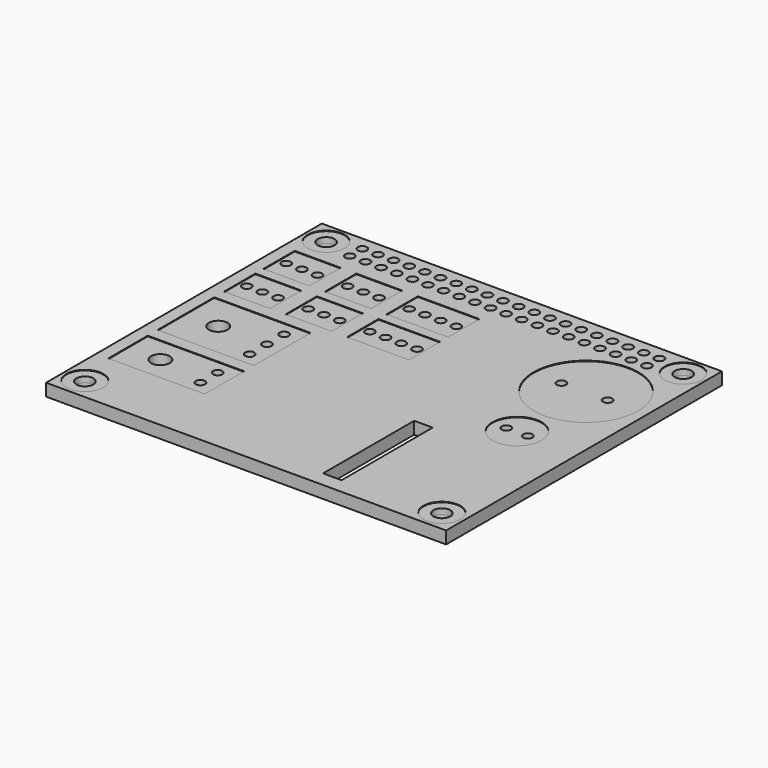
from build123d import *

# Parameters (mm, degrees)
F0_W          = 65
F0_H          = 56
F0_R          = 3
F0_W_2        = 3
F0_H_2        = 18.5
F1_DEPTH      = 1
F1_DEPTH_BACK = 1
F2_R          = 3
F2_R_2        = 1.375
F3_DEPTH      = 0.9
F3_DEPTH_BACK = 0.9
F4_R          = 0.75
F4_W          = 0.64
F4_H          = 0.64
F4_R_2        = 1.525
F5_DEPTH      = 2.001
F4_W_2        = 7.47
F4_H_2        = 6.35
F4_W_3        = 10.01
F4_W_4        = 15.66
F4_H_3        = 11.5
F4_H_4        = 8
F4_R_3        = 8.5
F4_R_4        = 4
F6_DEPTH      = 0.1
F7_W          = 51.3
F7_H          = 5
F7_R          = 0.75
F8_DEPTH      = 0.1


with BuildPart() as f1:
    # F0 (on Top) → F1 (new body, two sides)
    with BuildSketch(Plane.XY) as f1_sk:
        Rectangle(F0_W, F0_H)
        with Locations((-29, -24.5)):
            Circle(F0_R, mode=Mode.SUBTRACT)
        with Locations((29, -24.5)):
            Circle(F0_R, mode=Mode.SUBTRACT)
        with Locations((12, -16.25)):
            Rectangle(F0_W_2, F0_H_2, mode=Mode.SUBTRACT)
        with Locations((-29, 24.5)):
            Circle(F0_R, mode=Mode.SUBTRACT)
        with Locations((29, 24.5)):
            Circle(F0_R, mode=Mode.SUBTRACT)
    extrude(amount=F1_DEPTH)
    extrude(f1_sk.sketch, amount=-F1_DEPTH_BACK)

    # F2 (on Top) → F3 (join, two sides)
    with BuildSketch(Plane.XY) as f3_sk:
        with Locations((-29, 24.5)):
            Circle(F2_R)
        with Locations((-29, 24.5)):
            Circle(F2_R_2, mode=Mode.SUBTRACT)
        with Locations((29, 24.5)):
            Circle(F2_R)
        with Locations((29, 24.5)):
            Circle(F2_R_2, mode=Mode.SUBTRACT)
        with Locations((29, -24.5)):
            Circle(F2_R)
        with Locations((29, -24.5)):
            Circle(F2_R_2, mode=Mode.SUBTRACT)
        with Locations((-29, -24.5)):
            Circle(F2_R)
        with Locations((-29, -24.5)):
            Circle(F2_R_2, mode=Mode.SUBTRACT)
    extrude(amount=F3_DEPTH)
    extrude(f3_sk.sketch, amount=-F3_DEPTH_BACK)

    # F4 (on face) → F5 (cut, through all)
    with BuildSketch(Plane.XY.offset(1)):
        with Locations((-29.3, 8.75)):
            Circle(F4_R)
        with Locations((-29.3, 8.75)):
            Rectangle(F4_W, F4_H, mode=Mode.SUBTRACT)
        with Locations((-29.3, 8.75)):
            Rectangle(F4_W, F4_H)
        with Locations((-26.75, 8.75)):
            Circle(F4_R)
        with Locations((-26.75, 8.75)):
            Rectangle(F4_W, F4_H, mode=Mode.SUBTRACT)
        with Locations((-26.75, 8.75)):
            Rectangle(F4_W, F4_H)
        with Locations((-24.2, 8.75)):
            Circle(F4_R)
        with Locations((-24.2, 8.75)):
            Rectangle(F4_W, F4_H, mode=Mode.SUBTRACT)
        with Locations((-24.2, 8.75)):
            Rectangle(F4_W, F4_H)
        with Locations((-29.3, 16.75)):
            Circle(F4_R)
        with Locations((-29.3, 16.75)):
            Rectangle(F4_W, F4_H, mode=Mode.SUBTRACT)
        with Locations((-29.3, 16.75)):
            Rectangle(F4_W, F4_H)
        with Locations((-26.75, 16.75)):
            Circle(F4_R)
        with Locations((-26.75, 16.75)):
            Rectangle(F4_W, F4_H, mode=Mode.SUBTRACT)
        with Locations((-26.75, 16.75)):
            Rectangle(F4_W, F4_H)
        with Locations((-24.2, 16.75)):
            Circle(F4_R)
        with Locations((-24.2, 16.75)):
            Rectangle(F4_W, F4_H, mode=Mode.SUBTRACT)
        with Locations((-24.2, 16.75)):
            Rectangle(F4_W, F4_H)
        with Locations((-19.3, 16.75)):
            Circle(F4_R)
        with Locations((-19.3, 16.75)):
            Rectangle(F4_W, F4_H, mode=Mode.SUBTRACT)
        with Locations((-19.3, 16.75)):
            Rectangle(F4_W, F4_H)
        with Locations((-16.75, 16.75)):
            Circle(F4_R)
        with Locations((-16.75, 16.75)):
            Rectangle(F4_W, F4_H, mode=Mode.SUBTRACT)
        with Locations((-16.75, 16.75)):
            Rectangle(F4_W, F4_H)
        with Locations((-14.2, 16.75)):
            Circle(F4_R)
        with Locations((-14.2, 16.75)):
            Rectangle(F4_W, F4_H, mode=Mode.SUBTRACT)
        with Locations((-14.2, 16.75)):
            Rectangle(F4_W, F4_H)
        with Locations((-9.3, 16.75)):
            Circle(F4_R)
        with Locations((-9.3, 16.75)):
            Rectangle(F4_W, F4_H, mode=Mode.SUBTRACT)
        with Locations((-9.3, 16.75)):
            Rectangle(F4_W, F4_H)
        with Locations((-6.75, 16.75)):
            Circle(F4_R)
        with Locations((-6.75, 16.75)):
            Rectangle(F4_W, F4_H, mode=Mode.SUBTRACT)
        with Locations((-6.75, 16.75)):
            Rectangle(F4_W, F4_H)
        with Locations((-4.2, 16.75)):
            Circle(F4_R)
        with Locations((-4.2, 16.75)):
            Rectangle(F4_W, F4_H, mode=Mode.SUBTRACT)
        with Locations((-4.2, 16.75)):
            Rectangle(F4_W, F4_H)
        with Locations((-1.65, 16.75)):
            Circle(F4_R)
        with Locations((-1.65, 16.75)):
            Rectangle(F4_W, F4_H, mode=Mode.SUBTRACT)
        with Locations((-1.65, 16.75)):
            Rectangle(F4_W, F4_H)
        with Locations((-9.3, 8.75)):
            Circle(F4_R)
        with Locations((-9.3, 8.75)):
            Rectangle(F4_W, F4_H, mode=Mode.SUBTRACT)
        with Locations((-9.3, 8.75)):
            Rectangle(F4_W, F4_H)
        with Locations((-6.75, 8.75)):
            Circle(F4_R)
        with Locations((-6.75, 8.75)):
            Rectangle(F4_W, F4_H, mode=Mode.SUBTRACT)
        with Locations((-6.75, 8.75)):
            Rectangle(F4_W, F4_H)
        with Locations((-4.2, 8.75)):
            Circle(F4_R)
        with Locations((-4.2, 8.75)):
            Rectangle(F4_W, F4_H, mode=Mode.SUBTRACT)
        with Locations((-4.2, 8.75)):
            Rectangle(F4_W, F4_H)
        with Locations((-1.65, 8.75)):
            Circle(F4_R)
        with Locations((-1.65, 8.75)):
            Rectangle(F4_W, F4_H, mode=Mode.SUBTRACT)
        with Locations((-1.65, 8.75)):
            Rectangle(F4_W, F4_H)
        with Locations((-14.2, 8.75)):
            Circle(F4_R)
        with Locations((-14.2, 8.75)):
            Rectangle(F4_W, F4_H, mode=Mode.SUBTRACT)
        with Locations((-14.2, 8.75)):
            Rectangle(F4_W, F4_H)
        with Locations((-16.75, 8.75)):
            Circle(F4_R)
        with Locations((-16.75, 8.75)):
            Rectangle(F4_W, F4_H, mode=Mode.SUBTRACT)
        with Locations((-16.75, 8.75)):
            Rectangle(F4_W, F4_H)
        with Locations((-19.3, 8.75)):
            Circle(F4_R)
        with Locations((-19.3, 8.75)):
            Rectangle(F4_W, F4_H, mode=Mode.SUBTRACT)
        with Locations((-19.3, 8.75)):
            Rectangle(F4_W, F4_H)
        with Locations((-17.34, 1.4)):
            Circle(F4_R)
        with Locations((-25.25, -2.1)):
            Circle(F4_R_2)
        with Locations((-17.34, -2.1)):
            Circle(F4_R)
        with Locations((-17.34, -5.6)):
            Circle(F4_R)
        with Locations((-17.34, -12.1)):
            Circle(F4_R)
        with Locations((-17.34, -15.6)):
            Circle(F4_R)
        with Locations((-25.25, -13.85)):
            Circle(F4_R_2)
        with Locations((20.75, -1.1)):
            Circle(F4_R)
        with Locations((24.25, -1.1)):
            Circle(F4_R)
        with Locations((18.5, 12.9)):
            Circle(F4_R)
        with Locations((26, 12.9)):
            Circle(F4_R)
        with Locations((-24.15, 23.25)):
            Circle(F4_R)
        with Locations((-24.15, 25.79)):
            Circle(F4_R)
        with Locations((-21.61, 25.79)):
            Circle(F4_R)
        with Locations((-21.61, 23.25)):
            Circle(F4_R)
        with Locations((-19.07, 25.79)):
            Circle(F4_R)
        with Locations((-19.07, 23.25)):
            Circle(F4_R)
        with Locations((-16.53, 25.79)):
            Circle(F4_R)
        with Locations((-16.53, 23.25)):
            Circle(F4_R)
        with Locations((-13.99, 25.79)):
            Circle(F4_R)
        with Locations((-13.99, 23.25)):
            Circle(F4_R)
        with Locations((-11.45, 25.79)):
            Circle(F4_R)
        with Locations((-11.45, 23.25)):
            Circle(F4_R)
        with Locations((-8.91, 25.79)):
            Circle(F4_R)
        with Locations((-8.91, 23.25)):
            Circle(F4_R)
        with Locations((-6.37, 25.79)):
            Circle(F4_R)
        with Locations((-6.37, 23.25)):
            Circle(F4_R)
        with Locations((-3.83, 25.79)):
            Circle(F4_R)
        with Locations((-3.83, 23.25)):
            Circle(F4_R)
        with Locations((-1.29, 25.79)):
            Circle(F4_R)
        with Locations((-1.29, 23.25)):
            Circle(F4_R)
        with Locations((1.25, 25.79)):
            Circle(F4_R)
        with Locations((1.25, 23.25)):
            Circle(F4_R)
        with Locations((3.79, 25.79)):
            Circle(F4_R)
        with Locations((3.79, 23.25)):
            Circle(F4_R)
        with Locations((6.33, 25.79)):
            Circle(F4_R)
        with Locations((6.33, 23.25)):
            Circle(F4_R)
        with Locations((8.87, 25.79)):
            Circle(F4_R)
        with Locations((8.87, 23.25)):
            Circle(F4_R)
        with Locations((11.41, 25.79)):
            Circle(F4_R)
        with Locations((11.41, 23.25)):
            Circle(F4_R)
        with Locations((13.95, 25.79)):
            Circle(F4_R)
        with Locations((13.95, 23.25)):
            Circle(F4_R)
        with Locations((16.49, 25.79)):
            Circle(F4_R)
        with Locations((16.49, 23.25)):
            Circle(F4_R)
        with Locations((19.03, 25.79)):
            Circle(F4_R)
        with Locations((19.03, 23.25)):
            Circle(F4_R)
        with Locations((21.57, 25.79)):
            Circle(F4_R)
        with Locations((21.57, 23.25)):
            Circle(F4_R)
        with Locations((24.11, 25.79)):
            Circle(F4_R)
        with Locations((24.11, 23.25)):
            Circle(F4_R)
    extrude(amount=-F5_DEPTH, mode=Mode.SUBTRACT)

    # F4 (on face) → F6 (cut)
    with BuildSketch(Plane.XY.offset(1)):
        with Locations((-26.765, 16.825)):
            Rectangle(F4_W_2, F4_H_2)
        with Locations((-29.3, 16.75)):
            Circle(F4_R, mode=Mode.SUBTRACT)
        with Locations((-26.75, 16.75)):
            Circle(F4_R, mode=Mode.SUBTRACT)
        with Locations((-24.2, 16.75)):
            Circle(F4_R, mode=Mode.SUBTRACT)
        with Locations((-16.765, 16.825)):
            Rectangle(F4_W_2, F4_H_2)
        with Locations((-19.3, 16.75)):
            Circle(F4_R, mode=Mode.SUBTRACT)
        with Locations((-16.75, 16.75)):
            Circle(F4_R, mode=Mode.SUBTRACT)
        with Locations((-14.2, 16.75)):
            Circle(F4_R, mode=Mode.SUBTRACT)
        with Locations((-5.495, 16.825)):
            Rectangle(F4_W_3, F4_H_2)
        with Locations((-9.3, 16.75)):
            Circle(F4_R, mode=Mode.SUBTRACT)
        with Locations((-6.75, 16.75)):
            Circle(F4_R, mode=Mode.SUBTRACT)
        with Locations((-4.2, 16.75)):
            Circle(F4_R, mode=Mode.SUBTRACT)
        with Locations((-1.65, 16.75)):
            Circle(F4_R, mode=Mode.SUBTRACT)
        with Locations((-5.495, 8.825)):
            Rectangle(F4_W_3, F4_H_2)
        with Locations((-9.3, 8.75)):
            Circle(F4_R, mode=Mode.SUBTRACT)
        with Locations((-6.75, 8.75)):
            Circle(F4_R, mode=Mode.SUBTRACT)
        with Locations((-4.2, 8.75)):
            Circle(F4_R, mode=Mode.SUBTRACT)
        with Locations((-1.65, 8.75)):
            Circle(F4_R, mode=Mode.SUBTRACT)
        with Locations((-16.765, 8.825)):
            Rectangle(F4_W_2, F4_H_2)
        with Locations((-19.3, 8.75)):
            Circle(F4_R, mode=Mode.SUBTRACT)
        with Locations((-16.75, 8.75)):
            Circle(F4_R, mode=Mode.SUBTRACT)
        with Locations((-14.2, 8.75)):
            Circle(F4_R, mode=Mode.SUBTRACT)
        with Locations((-26.765, 8.825)):
            Rectangle(F4_W_2, F4_H_2)
        with Locations((-29.3, 8.75)):
            Circle(F4_R, mode=Mode.SUBTRACT)
        with Locations((-26.75, 8.75)):
            Circle(F4_R, mode=Mode.SUBTRACT)
        with Locations((-24.2, 8.75)):
            Circle(F4_R, mode=Mode.SUBTRACT)
        with Locations((-22.67, -2.1)):
            Rectangle(F4_W_4, F4_H_3)
        with Locations((-25.25, -2.1)):
            Circle(F4_R_2, mode=Mode.SUBTRACT)
        with Locations((-17.34, -5.6)):
            Circle(F4_R, mode=Mode.SUBTRACT)
        with Locations((-17.34, -2.1)):
            Circle(F4_R, mode=Mode.SUBTRACT)
        with Locations((-17.34, 1.4)):
            Circle(F4_R, mode=Mode.SUBTRACT)
        with Locations((-22.67, -13.85)):
            Rectangle(F4_W_4, F4_H_4)
        with Locations((-17.34, -15.6)):
            Circle(F4_R, mode=Mode.SUBTRACT)
        with Locations((-25.25, -13.85)):
            Circle(F4_R_2, mode=Mode.SUBTRACT)
        with Locations((-17.34, -12.1)):
            Circle(F4_R, mode=Mode.SUBTRACT)
        with Locations((22.5, 12.9)):
            Circle(F4_R_3)
        with Locations((18.5, 12.9)):
            Circle(F4_R, mode=Mode.SUBTRACT)
        with Locations((26, 12.9)):
            Circle(F4_R, mode=Mode.SUBTRACT)
        with Locations((22.5, -1.1)):
            Circle(F4_R_4)
        with Locations((20.75, -1.1)):
            Circle(F4_R, mode=Mode.SUBTRACT)
        with Locations((24.25, -1.1)):
            Circle(F4_R, mode=Mode.SUBTRACT)
    extrude(amount=-F6_DEPTH, mode=Mode.SUBTRACT)

    # F7 (on face) → F8 (cut)
    with BuildSketch(Plane(origin=(0, 0, -1), x_dir=(1, 0, 0), z_dir=(0, 0, -1))):
        with Locations((0, -24.54)):
            Rectangle(F7_W, F7_H)
        with Locations((-24.15, -25.79)):
            Circle(F7_R, mode=Mode.SUBTRACT)
        with Locations((-21.61, -25.79)):
            Circle(F7_R, mode=Mode.SUBTRACT)
        with Locations((-19.07, -25.79)):
            Circle(F7_R, mode=Mode.SUBTRACT)
        with Locations((-16.53, -25.79)):
            Circle(F7_R, mode=Mode.SUBTRACT)
        with Locations((-24.15, -23.25)):
            Circle(F7_R, mode=Mode.SUBTRACT)
        with Locations((-21.61, -23.25)):
            Circle(F7_R, mode=Mode.SUBTRACT)
        with Locations((-19.07, -23.25)):
            Circle(F7_R, mode=Mode.SUBTRACT)
        with Locations((-16.53, -23.25)):
            Circle(F7_R, mode=Mode.SUBTRACT)
        with Locations((-13.99, -25.79)):
            Circle(F7_R, mode=Mode.SUBTRACT)
        with Locations((-11.45, -25.79)):
            Circle(F7_R, mode=Mode.SUBTRACT)
        with Locations((-8.91, -25.79)):
            Circle(F7_R, mode=Mode.SUBTRACT)
        with Locations((-13.99, -23.25)):
            Circle(F7_R, mode=Mode.SUBTRACT)
        with Locations((-11.45, -23.25)):
            Circle(F7_R, mode=Mode.SUBTRACT)
        with Locations((-8.91, -23.25)):
            Circle(F7_R, mode=Mode.SUBTRACT)
        with Locations((-6.37, -25.79)):
            Circle(F7_R, mode=Mode.SUBTRACT)
        with Locations((-3.83, -25.79)):
            Circle(F7_R, mode=Mode.SUBTRACT)
        with Locations((-1.29, -25.79)):
            Circle(F7_R, mode=Mode.SUBTRACT)
        with Locations((-6.37, -23.25)):
            Circle(F7_R, mode=Mode.SUBTRACT)
        with Locations((-3.83, -23.25)):
            Circle(F7_R, mode=Mode.SUBTRACT)
        with Locations((-1.29, -23.25)):
            Circle(F7_R, mode=Mode.SUBTRACT)
        with Locations((1.25, -25.79)):
            Circle(F7_R, mode=Mode.SUBTRACT)
        with Locations((3.79, -25.79)):
            Circle(F7_R, mode=Mode.SUBTRACT)
        with Locations((6.33, -25.79)):
            Circle(F7_R, mode=Mode.SUBTRACT)
        with Locations((1.25, -23.25)):
            Circle(F7_R, mode=Mode.SUBTRACT)
        with Locations((3.79, -23.25)):
            Circle(F7_R, mode=Mode.SUBTRACT)
        with Locations((6.33, -23.25)):
            Circle(F7_R, mode=Mode.SUBTRACT)
        with Locations((8.87, -25.79)):
            Circle(F7_R, mode=Mode.SUBTRACT)
        with Locations((11.41, -25.79)):
            Circle(F7_R, mode=Mode.SUBTRACT)
        with Locations((13.95, -25.79)):
            Circle(F7_R, mode=Mode.SUBTRACT)
        with Locations((8.87, -23.25)):
            Circle(F7_R, mode=Mode.SUBTRACT)
        with Locations((11.41, -23.25)):
            Circle(F7_R, mode=Mode.SUBTRACT)
        with Locations((13.95, -23.25)):
            Circle(F7_R, mode=Mode.SUBTRACT)
        with Locations((16.49, -25.79)):
            Circle(F7_R, mode=Mode.SUBTRACT)
        with Locations((19.03, -25.79)):
            Circle(F7_R, mode=Mode.SUBTRACT)
        with Locations((21.57, -25.79)):
            Circle(F7_R, mode=Mode.SUBTRACT)
        with Locations((24.11, -25.79)):
            Circle(F7_R, mode=Mode.SUBTRACT)
        with Locations((16.49, -23.25)):
            Circle(F7_R, mode=Mode.SUBTRACT)
        with Locations((19.03, -23.25)):
            Circle(F7_R, mode=Mode.SUBTRACT)
        with Locations((21.57, -23.25)):
            Circle(F7_R, mode=Mode.SUBTRACT)
        with Locations((24.11, -23.25)):
            Circle(F7_R, mode=Mode.SUBTRACT)
    extrude(amount=-F8_DEPTH, mode=Mode.SUBTRACT)


solid = f1.part
